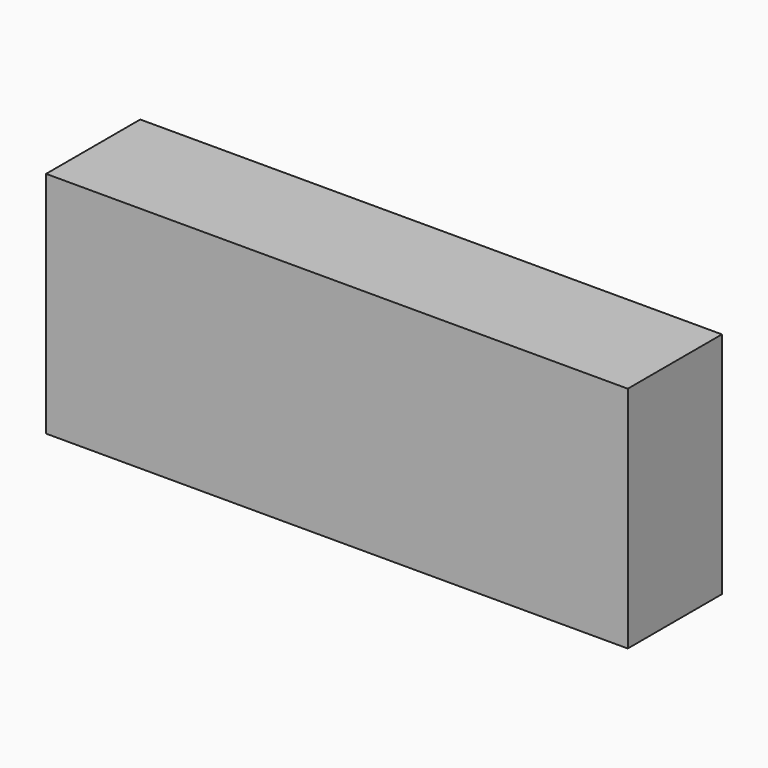
from build123d import *

# Parameters (mm, degrees)
F0_W     = 206
F0_H     = 81
F1_DEPTH = 41.68
F2_R     = 2.65
F3_DEPTH = 10
F4_W     = 50
F4_H     = 20
F5_DEPTH = 25


with BuildPart() as f1:
    # F0 (on Front) → F1 (new body)
    with BuildSketch(Plane.XZ):
        Rectangle(F0_W, F0_H)
    extrude(amount=F1_DEPTH)

    # F2 (on face) → F3 (cut)
    with BuildSketch(Plane(origin=(0, 0, 0), x_dir=(-1, 0, 0), z_dir=(0, 1, 0))):
        with Locations((-81, 36.75)):
            Circle(F2_R)
        with Locations((-81, -36.75)):
            Circle(F2_R)
        with Locations((81, -36.75)):
            Circle(F2_R)
        with Locations((81, 36.75)):
            Circle(F2_R)
    extrude(amount=-F3_DEPTH, mode=Mode.SUBTRACT)

    # F4 (on face) → F5 (join)
    with BuildSketch(Plane(origin=(0, 0, 0), x_dir=(-1, 0, 0), z_dir=(0, 1, 0))):
        with Locations((0, -20.5)):
            Rectangle(F4_W, F4_H)
    extrude(amount=F5_DEPTH)


solid = f1.part
